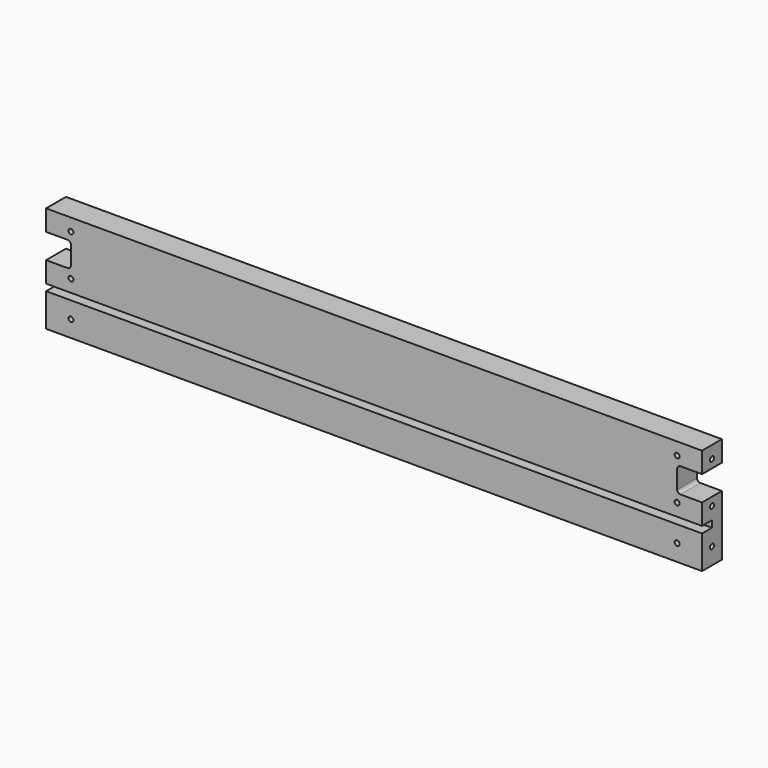
from build123d import *

# Parameters (mm, degrees)
SKETCH_W        = 395.8
SKETCH_H        = 64
PAD_DEPTH       = 15
SKETCH001_R     = 1.5
POCKET_DEPTH    = 15.001
SKETCH002_W     = 395.8
SKETCH002_H     = 4
POCKET001_DEPTH = 7.5
SKETCH003_R     = 1.5
POCKET002_DEPTH = 20
SKETCH004_R     = 1.5
POCKET003_DEPTH = 20
POCKET004_DEPTH = 15.001


with BuildPart() as part:
    # Sketch → Pad (new body)
    with BuildSketch(Plane.XZ):
        with Locations((197.9, 32)):
            Rectangle(SKETCH_W, SKETCH_H)
    extrude(amount=-PAD_DEPTH)

    # Sketch001 (on Face5 of Pad) → Pocket (cut, through all)
    with BuildSketch(Plane.XZ):
        with Locations((15, 56.5)):
            Circle(SKETCH001_R)
        with Locations((15, 31.5)):
            Circle(SKETCH001_R)
        with Locations((380.8, 31.5)):
            Circle(SKETCH001_R)
        with Locations((380.8, 56.5)):
            Circle(SKETCH001_R)
        with Locations((15, 10)):
            Circle(SKETCH001_R)
        with Locations((380.8, 10)):
            Circle(SKETCH001_R)
    extrude(amount=-POCKET_DEPTH, mode=Mode.SUBTRACT)

    # Sketch002 (on Face4 of Pocket) → Pocket001 (cut)
    with BuildSketch(Plane.XZ):
        with Locations((197.9, 22)):
            Rectangle(SKETCH002_W, SKETCH002_H)
    extrude(amount=-POCKET001_DEPTH, mode=Mode.SUBTRACT)

    # Sketch003 (on Face3 of Pocket001) → Pocket002 (cut)
    with BuildSketch(Plane(origin=(395.8, 0, 0), x_dir=(0, 0, 1), z_dir=(1, 0, 0))):
        with Locations((10, -7.5)):
            Circle(SKETCH003_R)
        with Locations((31.5, -7.5)):
            Circle(SKETCH003_R)
        with Locations((56.5, -7.5)):
            Circle(SKETCH003_R)
    extrude(amount=-POCKET002_DEPTH, mode=Mode.SUBTRACT)

    # Sketch004 (on Face2 of Pocket002) → Pocket003 (cut)
    with BuildSketch(Plane(origin=(0, 0, 0), x_dir=(0, 0, -1), z_dir=(-1, 0, 0))):
        with Locations((-56.5, -7.5)):
            Circle(SKETCH004_R)
        with Locations((-31.5, -7.5)):
            Circle(SKETCH004_R)
        with Locations((-10, -7.5)):
            Circle(SKETCH004_R)
    extrude(amount=-POCKET003_DEPTH, mode=Mode.SUBTRACT)

    # Sketch005 (on Face5 of Pocket003) → Pocket004 (cut, through all)
    with BuildSketch(Plane(origin=(0, 15, 0), x_dir=(1, 0, 0), z_dir=(0, 1, 0))):
        with BuildLine():
            Line((0, -51.5), (13, -51.5))
            ThreePointArc((13, -51.5), (14.414214, -50.914214), (15, -49.5))
            Line((15, -49.5), (15, -38.5))
            ThreePointArc((15, -38.5), (14.414214, -37.085786), (13, -36.5))
            Line((13, -36.5), (0, -36.5))
            Line((0, -36.5), (0, -51.5))
        make_face()
        with BuildLine():
            Line((395.8, -51.5), (382.8, -51.5))
            ThreePointArc((380.8, -49.5), (381.385786, -50.914214), (382.8, -51.5))
            Line((380.8, -49.5), (380.8, -38.5))
            ThreePointArc((382.8, -36.5), (381.385786, -37.085786), (380.8, -38.5))
            Line((382.8, -36.5), (395.8, -36.5))
            Line((395.8, -36.5), (395.8, -44))
            Line((395.8, -44), (395.8, -51.5))
        make_face()
    extrude(amount=-POCKET004_DEPTH, mode=Mode.SUBTRACT)


solid = part.part
